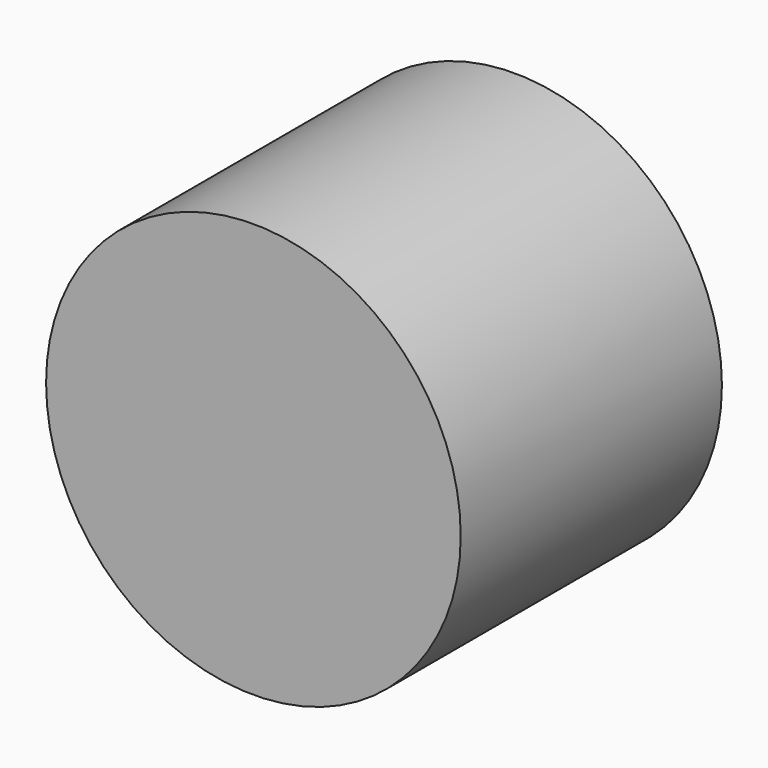
from build123d import *

# Parameters (mm, degrees)
CYLINDER009_R     = 5.85
CYLINDER009_DEPTH = 3
CYLINDER008_R     = 6.35
CYLINDER008_DEPTH = 10


with BuildPart() as cylinder009:
    # Cylinder009 → Cylinder009 (new body)
    with BuildSketch(Plane(origin=(93, 119, 14.75), x_dir=(1, 0, 0), z_dir=(0, 1, 0))):
        Circle(CYLINDER009_R)
    extrude(amount=CYLINDER009_DEPTH)


with BuildPart() as f_4g:
    # Cylinder008 → Cylinder008 (new body)
    with BuildSketch(Plane(origin=(93, 112, 14.75), x_dir=(1, 0, 0), z_dir=(0, 1, 0))):
        Circle(CYLINDER008_R)
    extrude(amount=CYLINDER008_DEPTH)

    # Cut011: cut Cylinder009
    add(cylinder009.part, mode=Mode.SUBTRACT)


solid = f_4g.part
